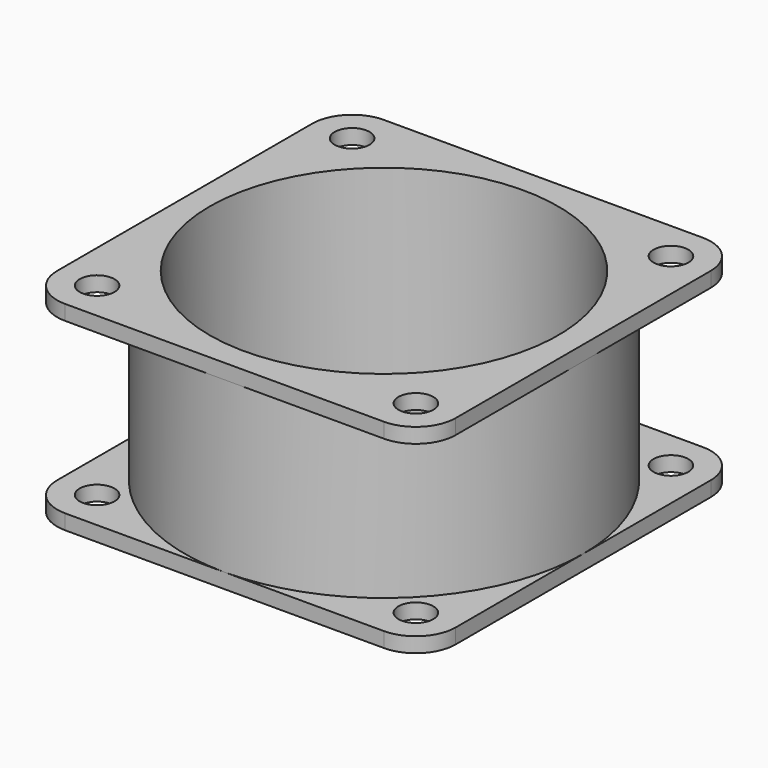
from build123d import *

# Parameters (mm, degrees)
F0_W     = 1.5
F0_H     = 17
F1_DEPTH = 20
F2_R     = 4
F4_D     = 3.5
F0_W_2   = 22.978194
F6_D     = 35


with BuildPart() as f1:
    # F0 (on Front) → F1 (new body, symmetric)
    with BuildSketch(Plane.XZ):
        with Locations((-19.25, 0)):
            Rectangle(F0_W, F0_H)
        Polygon((0, 10), (-20, 10), (-20, 8.5), (-18.5, 8.5), (-18.5, -8.5), (-20, -8.5), (-20, -10), (20, -10), (20, 10), align=None)
    extrude(amount=F1_DEPTH, both=True)

    # F2
    f2_edges = [f1.edges().sort_by_distance(p)[0] for p in [
        (-20, -20, 0),
        (20, -20, 0),
        (20, 20, 0),
        (-20, 20, 0),
    ]]
    fillet(f2_edges, radius=F2_R)

    # F4 (through all)
    with Locations(Plane(origin=(0, 0, -10), x_dir=(1, 0, 0), z_dir=(0, 0, -1))):
        with Locations((-16, 16), (16, 16), (16, -16), (-16, -16)):
            Hole(F4_D / 2)

    # F0 (on Front) → F5 (revolve, cut)
    with BuildSketch(Plane.XZ):
        with Locations((-31.489097, 0)):
            Rectangle(F0_W_2, F0_H)
    revolve(axis=Axis((0, 0, 9.40158), (0, 0, 1)), mode=Mode.SUBTRACT)

    # F6 (through all)
    with Locations(Plane(origin=(0, 0, -10), x_dir=(1, 0, 0), z_dir=(0, 0, -1))):
        with Locations((0, 0)):
            Hole(F6_D / 2)


solid = f1.part
